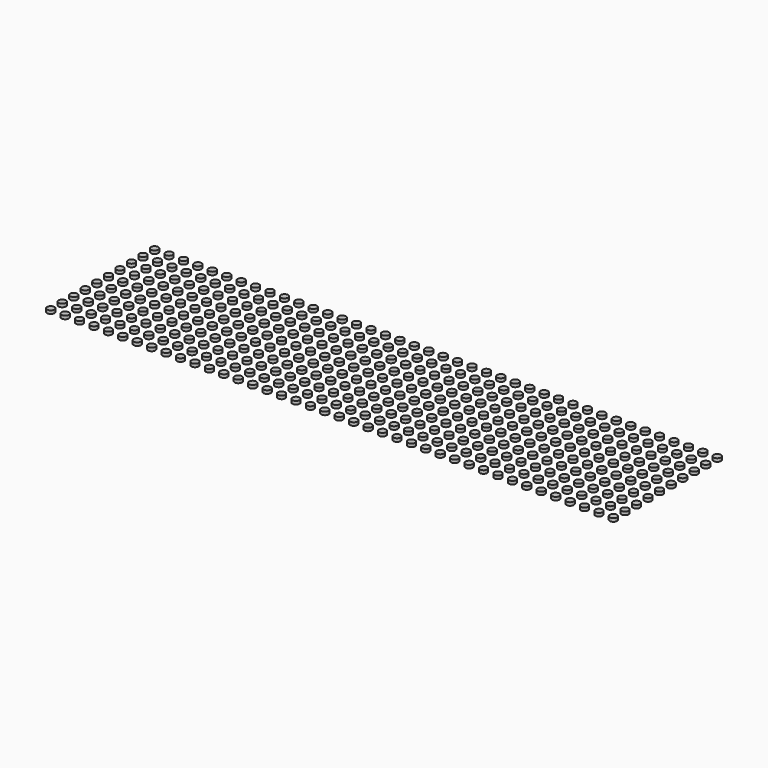
from build123d import *

# Parameters (mm, degrees)
SKETCH006_R   = 0.32
PAD004_DEPTH  = 0.28
ARRAY_X_COUNT = 40
ARRAY_X_PITCH = 1.27
ARRAY_Y_COUNT = 10
ARRAY_Y_PITCH = 1.27


with BuildPart() as part:
    # Sketch006 → Pad004 (new body)
    with BuildSketch(Plane.XY):
        with Locations((3.125, 1.625)):
            Circle(SKETCH006_R)
    extrude(amount=PAD004_DEPTH)

    # Array X: part ×40


with BuildPart() as part_1:
    add(part.part)
    with Locations(*[(i * ARRAY_X_PITCH, 0, 0) for i in range(1, ARRAY_X_COUNT)]):
        add(part.part)

    # Array Y: part ×10


with BuildPart() as part_2:
    add(part_1.part)
    with Locations(*[(0, i * ARRAY_Y_PITCH, 0) for i in range(1, ARRAY_Y_COUNT)]):
        add(part_1.part)


solid = part_2.part
